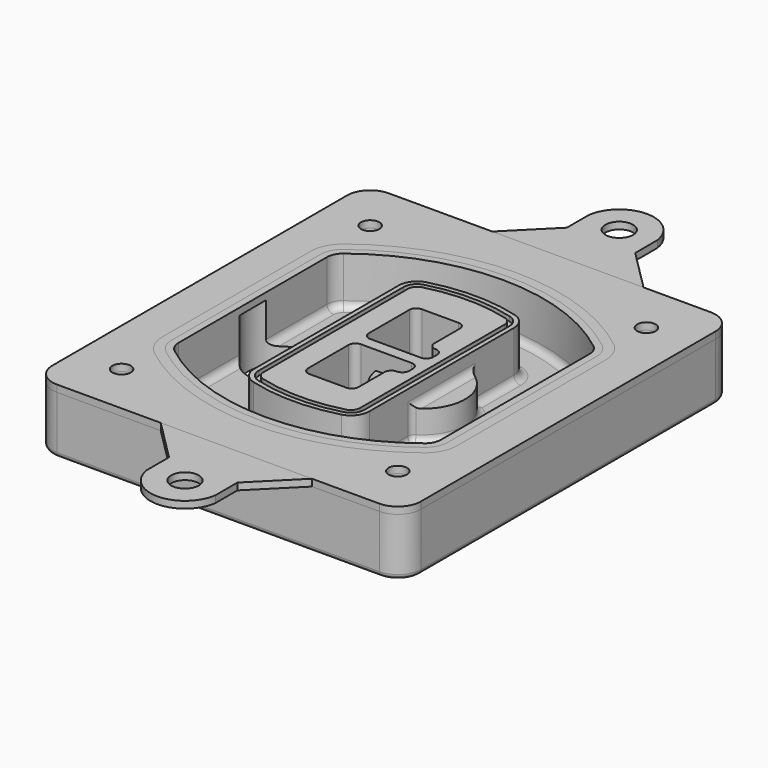
from build123d import *

# Parameters (mm, degrees)
F0_R      = 4
F1_DEPTH  = 25
F2_DEPTH  = 3
F3_DEPTH  = 18
F5_DEPTH  = 21
F6_DEPTH  = 2
F8_DEPTH  = 20
F9_DEPTH  = 16
F10_DEPTH = 25
F7_R      = 6
F7_R_2    = 4
F11_DEPTH = 6
F13_DEPTH = 9
F14_R     = 3
F15_R     = 2
F16_R     = 6
F16_R_2   = 4
F17_DEPTH = 3
F18_DEPTH = 3


with BuildPart() as f1:
    # F0 (on Top) → F1 (new body)
    with BuildSketch(Plane.XY):
        with BuildLine():
            ThreePointArc((-80, -80), (-77.0710678119, -87.0710678119), (-70, -90))
            Line((-70, -90), (70, -90))
            ThreePointArc((70, -90), (77.0710678119, -87.0710678119), (80, -80))
            Line((80, -80), (80, 80))
            ThreePointArc((80, 80), (77.0710678119, 87.0710678119), (70, 90))
            Line((70, 90), (-70, 90))
            ThreePointArc((-70, 90), (-77.0710678119, 87.0710678119), (-80, 80))
            Line((-80, 80), (-80, -80))
        make_face()
        with Locations((-60, -67.5)):
            Circle(F0_R, mode=Mode.SUBTRACT)
        with Locations((60, -67.5)):
            Circle(F0_R, mode=Mode.SUBTRACT)
        with Locations((-60, 67.5)):
            Circle(F0_R, mode=Mode.SUBTRACT)
        with BuildLine():
            ThreePointArc((-64, 40.2934422872), (-62.5820384798, 46.4328484224), (-58.6153846154, 51.3286200352))
            ThreePointArc((-58.6153846154, 51.3286200352), (0, 71.5), (58.6153846154, 51.3286200352))
            ThreePointArc((58.6153846154, 51.3286200352), (62.5820384798, 46.4328484224), (64, 40.2934422872))
            Line((64, 40.2934422872), (64, -40.2934422872))
            ThreePointArc((64, -40.2934422872), (62.5820384798, -46.4328484224), (58.6153846154, -51.3286200352))
            ThreePointArc((58.6153846154, -51.3286200352), (0, -71.5), (-58.6153846154, -51.3286200352))
            ThreePointArc((-58.6153846154, -51.3286200352), (-62.5820384798, -46.4328484224), (-64, -40.2934422872))
            Line((-64, -40.2934422872), (-64, 40.2934422872))
        make_face(mode=Mode.SUBTRACT)
        with Locations((60, 67.5)):
            Circle(F0_R, mode=Mode.SUBTRACT)
        with BuildLine():
            ThreePointArc((58.6153846154, 51.3286200352), (0, 71.5), (-58.6153846154, 51.3286200352))
            ThreePointArc((-58.6153846154, 51.3286200352), (-62.5820384798, 46.4328484224), (-64, 40.2934422872))
            Line((-64, 40.2934422872), (-64, -40.2934422872))
            ThreePointArc((-64, -40.2934422872), (-62.5820384798, -46.4328484224), (-58.6153846154, -51.3286200352))
            ThreePointArc((-58.6153846154, -51.3286200352), (0, -71.5), (58.6153846154, -51.3286200352))
            ThreePointArc((58.6153846154, -51.3286200352), (62.5820384798, -46.4328484224), (64, -40.2934422872))
            Line((64, -40.2934422872), (64, 40.2934422872))
            ThreePointArc((64, 40.2934422872), (62.5820384798, 46.4328484224), (58.6153846154, 51.3286200352))
        make_face()
        with BuildLine():
            Line((-60, -40.2934422872), (-60, 40.2934422872))
            ThreePointArc((-60, 40.2934422872), (-58.9871703427, 44.6787323838), (-56.1538461538, 48.1757121072))
            ThreePointArc((-56.1538461538, 48.1757121072), (0, 67.5), (56.1538461538, 48.1757121072))
            ThreePointArc((56.1538461538, 48.1757121072), (58.9871703427, 44.6787323838), (60, 40.2934422872))
            Line((60, 40.2934422872), (60, -40.2934422872))
            ThreePointArc((60, -40.2934422872), (58.9871703427, -44.6787323838), (56.1538461538, -48.1757121072))
            ThreePointArc((56.1538461538, -48.1757121072), (0, -67.5), (-56.1538461538, -48.1757121072))
            ThreePointArc((-56.1538461538, -48.1757121072), (-58.9871703427, -44.6787323838), (-60, -40.2934422872))
        make_face(mode=Mode.SUBTRACT)
        with BuildLine():
            ThreePointArc((-56.1538461538, 48.1757121072), (-58.9871703427, 44.6787323838), (-60, 40.2934422872))
            Line((-60, 40.2934422872), (-60, -40.2934422872))
            ThreePointArc((-60, -40.2934422872), (-58.9871703427, -44.6787323838), (-56.1538461538, -48.1757121072))
            ThreePointArc((-56.1538461538, -48.1757121072), (0, -67.5), (56.1538461538, -48.1757121072))
            ThreePointArc((56.1538461538, -48.1757121072), (58.9871703427, -44.6787323838), (60, -40.2934422872))
            Line((60, -40.2934422872), (60, 40.2934422872))
            ThreePointArc((60, 40.2934422872), (58.9871703427, 44.6787323838), (56.1538461538, 48.1757121072))
            ThreePointArc((56.1538461538, 48.1757121072), (0, 67.5), (-56.1538461538, 48.1757121072))
        make_face()
        with BuildLine():
            ThreePointArc((54.3076923077, 45.8110311612), (56.2910192399, 43.3631453548), (57, 40.2934422872))
            Line((57, 40.2934422872), (57, -40.2934422872))
            ThreePointArc((57, -40.2934422872), (56.2910192399, -43.3631453548), (54.3076923077, -45.8110311612))
            ThreePointArc((54.3076923077, -45.8110311612), (0, -64.5), (-54.3076923077, -45.8110311612))
            ThreePointArc((-54.3076923077, -45.8110311612), (-56.2910192399, -43.3631453548), (-57, -40.2934422872))
            Line((-57, -40.2934422872), (-57, 40.2934422872))
            ThreePointArc((-57, 40.2934422872), (-56.2910192399, 43.3631453548), (-54.3076923077, 45.8110311612))
            ThreePointArc((-54.3076923077, 45.8110311612), (0, 64.5), (54.3076923077, 45.8110311612))
        make_face(mode=Mode.SUBTRACT)
        with BuildLine():
            Line((57, -40.2934422872), (57, 40.2934422872))
            ThreePointArc((57, 40.2934422872), (56.2910192399, 43.3631453548), (54.3076923077, 45.8110311612))
            ThreePointArc((54.3076923077, 45.8110311612), (0, 64.5), (-54.3076923077, 45.8110311612))
            ThreePointArc((-54.3076923077, 45.8110311612), (-56.2910192399, 43.3631453548), (-57, 40.2934422872))
            Line((-57, 40.2934422872), (-57, -40.2934422872))
            ThreePointArc((-57, -40.2934422872), (-56.2910192399, -43.3631453548), (-54.3076923077, -45.8110311612))
            ThreePointArc((-54.3076923077, -45.8110311612), (0, -64.5), (54.3076923077, -45.8110311612))
            ThreePointArc((54.3076923077, -45.8110311612), (56.2910192399, -43.3631453548), (57, -40.2934422872))
        make_face()
    extrude(amount=-F1_DEPTH)

    # F0 (on Top) → F2 (join)
    with BuildSketch(Plane.XY):
        with BuildLine():
            ThreePointArc((-56.1538461538, 48.1757121072), (-58.9871703427, 44.6787323838), (-60, 40.2934422872))
            Line((-60, 40.2934422872), (-60, -40.2934422872))
            ThreePointArc((-60, -40.2934422872), (-58.9871703427, -44.6787323838), (-56.1538461538, -48.1757121072))
            ThreePointArc((-56.1538461538, -48.1757121072), (0, -67.5), (56.1538461538, -48.1757121072))
            ThreePointArc((56.1538461538, -48.1757121072), (58.9871703427, -44.6787323838), (60, -40.2934422872))
            Line((60, -40.2934422872), (60, 40.2934422872))
            ThreePointArc((60, 40.2934422872), (58.9871703427, 44.6787323838), (56.1538461538, 48.1757121072))
            ThreePointArc((56.1538461538, 48.1757121072), (0, 67.5), (-56.1538461538, 48.1757121072))
        make_face()
        with BuildLine():
            ThreePointArc((54.3076923077, 45.8110311612), (56.2910192399, 43.3631453548), (57, 40.2934422872))
            Line((57, 40.2934422872), (57, -40.2934422872))
            ThreePointArc((57, -40.2934422872), (56.2910192399, -43.3631453548), (54.3076923077, -45.8110311612))
            ThreePointArc((54.3076923077, -45.8110311612), (0, -64.5), (-54.3076923077, -45.8110311612))
            ThreePointArc((-54.3076923077, -45.8110311612), (-56.2910192399, -43.3631453548), (-57, -40.2934422872))
            Line((-57, -40.2934422872), (-57, 40.2934422872))
            ThreePointArc((-57, 40.2934422872), (-56.2910192399, 43.3631453548), (-54.3076923077, 45.8110311612))
            ThreePointArc((-54.3076923077, 45.8110311612), (0, 64.5), (54.3076923077, 45.8110311612))
        make_face(mode=Mode.SUBTRACT)
    extrude(amount=F2_DEPTH)

    # F0 (on Top) → F3 (cut)
    with BuildSketch(Plane.XY):
        with BuildLine():
            Line((57, -40.2934422872), (57, 40.2934422872))
            ThreePointArc((57, 40.2934422872), (56.2910192399, 43.3631453548), (54.3076923077, 45.8110311612))
            ThreePointArc((54.3076923077, 45.8110311612), (0, 64.5), (-54.3076923077, 45.8110311612))
            ThreePointArc((-54.3076923077, 45.8110311612), (-56.2910192399, 43.3631453548), (-57, 40.2934422872))
            Line((-57, 40.2934422872), (-57, -40.2934422872))
            ThreePointArc((-57, -40.2934422872), (-56.2910192399, -43.3631453548), (-54.3076923077, -45.8110311612))
            ThreePointArc((-54.3076923077, -45.8110311612), (0, -64.5), (54.3076923077, -45.8110311612))
            ThreePointArc((54.3076923077, -45.8110311612), (56.2910192399, -43.3631453548), (57, -40.2934422872))
        make_face()
    extrude(amount=-F3_DEPTH, mode=Mode.SUBTRACT)

    # F4 (on face) → F5 (join, through all)
    with BuildSketch(Plane.XY.offset(3)):
        with BuildLine():
            ThreePointArc((-25, -39.2465276821), (-23.3511545998, -44.1109737193), (-19.0842911877, -46.9702398883))
            ThreePointArc((-19.0842911877, -46.9702398883), (0, -49.5), (19.0842911877, -46.9702398883))
            ThreePointArc((19.0842911877, -46.9702398883), (23.3511545998, -44.1109737193), (25, -39.2465276821))
            Line((25, -39.2465276821), (25, 39.2465276821))
            ThreePointArc((25, 39.2465276821), (23.3511545998, 44.1109737193), (19.0842911877, 46.9702398883))
            ThreePointArc((19.0842911877, 46.9702398883), (0, 49.5), (-19.0842911877, 46.9702398883))
            ThreePointArc((-19.0842911877, 46.9702398883), (-23.3511545998, 44.1109737193), (-25, 39.2465276821))
            Line((-25, 39.2465276821), (-25, -39.2465276821))
        make_face()
        with BuildLine():
            ThreePointArc((18.5632183908, 45.0393118368), (21.7633659499, 42.89486221), (23, 39.2465276821))
            Line((23, 39.2465276821), (23, -39.2465276821))
            ThreePointArc((23, -39.2465276821), (21.7633659499, -42.89486221), (18.5632183908, -45.0393118368))
            ThreePointArc((18.5632183908, -45.0393118368), (0, -47.5), (-18.5632183908, -45.0393118368))
            ThreePointArc((-18.5632183908, -45.0393118368), (-21.7633659499, -42.89486221), (-23, -39.2465276821))
            Line((-23, -39.2465276821), (-23, 39.2465276821))
            ThreePointArc((-23, 39.2465276821), (-21.7633659499, 42.89486221), (-18.5632183908, 45.0393118368))
            ThreePointArc((-18.5632183908, 45.0393118368), (0, 47.5), (18.5632183908, 45.0393118368))
        make_face(mode=Mode.SUBTRACT)
        with BuildLine():
            Line((23, -39.2465276821), (23, 39.2465276821))
            ThreePointArc((23, 39.2465276821), (21.7633659499, 42.89486221), (18.5632183908, 45.0393118368))
            ThreePointArc((18.5632183908, 45.0393118368), (0, 47.5), (-18.5632183908, 45.0393118368))
            ThreePointArc((-18.5632183908, 45.0393118368), (-21.7633659499, 42.89486221), (-23, 39.2465276821))
            Line((-23, 39.2465276821), (-23, -39.2465276821))
            ThreePointArc((-23, -39.2465276821), (-21.7633659499, -42.89486221), (-18.5632183908, -45.0393118368))
            ThreePointArc((-18.5632183908, -45.0393118368), (0, -47.5), (18.5632183908, -45.0393118368))
            ThreePointArc((18.5632183908, -45.0393118368), (21.7633659499, -42.89486221), (23, -39.2465276821))
        make_face()
        with BuildLine():
            ThreePointArc((18.0421455939, 43.1083837852), (20.1755772999, 41.6787507007), (21, 39.2465276821))
            Line((21, 39.2465276821), (21, -39.2465276821))
            ThreePointArc((21, -39.2465276821), (20.1755772999, -41.6787507007), (18.0421455939, -43.1083837852))
            ThreePointArc((18.0421455939, -43.1083837852), (0, -45.5), (-18.0421455939, -43.1083837852))
            ThreePointArc((-18.0421455939, -43.1083837852), (-20.1755772999, -41.6787507007), (-21, -39.2465276821))
            Line((-21, -39.2465276821), (-21, 39.2465276821))
            ThreePointArc((-21, 39.2465276821), (-20.1755772999, 41.6787507007), (-18.0421455939, 43.1083837852))
            ThreePointArc((-18.0421455939, 43.1083837852), (0, 45.5), (18.0421455939, 43.1083837852))
        make_face(mode=Mode.SUBTRACT)
        with BuildLine():
            Line((21, -39.2465276821), (21, 39.2465276821))
            ThreePointArc((21, 39.2465276821), (20.1755772999, 41.6787507007), (18.0421455939, 43.1083837852))
            ThreePointArc((18.0421455939, 43.1083837852), (0, 45.5), (-18.0421455939, 43.1083837852))
            ThreePointArc((-18.0421455939, 43.1083837852), (-20.1755772999, 41.6787507007), (-21, 39.2465276821))
            Line((-21, 39.2465276821), (-21, -39.2465276821))
            ThreePointArc((-21, -39.2465276821), (-20.1755772999, -41.6787507007), (-18.0421455939, -43.1083837852))
            ThreePointArc((-18.0421455939, -43.1083837852), (0, -45.5), (18.0421455939, -43.1083837852))
            ThreePointArc((18.0421455939, -43.1083837852), (20.1755772999, -41.6787507007), (21, -39.2465276821))
        make_face()
        with BuildLine():
            Line((-8, -2.5), (14, -2.5))
            ThreePointArc((14, -2.5), (16.1213203436, -3.3786796564), (17, -5.5))
            Line((17, -5.5), (17, -7.5))
            ThreePointArc((17, -7.5), (16.1213203436, -9.6213203436), (14, -10.5))
            ThreePointArc((14, -10.5), (11.8786796564, -11.3786796564), (11, -13.5))
            Line((11, -13.5), (11, -27.5))
            ThreePointArc((11, -27.5), (10.1213203436, -29.6213203436), (8, -30.5))
            Line((8, -30.5), (-8, -30.5))
            ThreePointArc((-8, -30.5), (-10.1213203436, -29.6213203436), (-11, -27.5))
            Line((-11, -27.5), (-11, -5.5))
            ThreePointArc((-11, -5.5), (-10.1213203436, -3.3786796564), (-8, -2.5))
        make_face(mode=Mode.SUBTRACT)
        with BuildLine():
            ThreePointArc((-8, 2.5), (-10.1213203436, 3.3786796564), (-11, 5.5))
            Line((-11, 5.5), (-11, 27.5))
            ThreePointArc((-11, 27.5), (-10.1213203436, 29.6213203436), (-8, 30.5))
            Line((-8, 30.5), (8, 30.5))
            ThreePointArc((8, 30.5), (10.1213203436, 29.6213203436), (11, 27.5))
            Line((11, 27.5), (11, 13.5))
            ThreePointArc((11, 13.5), (11.8786796564, 11.3786796564), (14, 10.5))
            ThreePointArc((14, 10.5), (16.1213203436, 9.6213203436), (17, 7.5))
            Line((17, 7.5), (17, 5.5))
            ThreePointArc((17, 5.5), (16.1213203436, 3.3786796564), (14, 2.5))
            Line((14, 2.5), (-8, 2.5))
        make_face(mode=Mode.SUBTRACT)
    extrude(amount=-F5_DEPTH)

    # F4 (on face) → F6 (cut)
    with BuildSketch(Plane.XY.offset(3)):
        with BuildLine():
            Line((23, -39.2465276821), (23, 39.2465276821))
            ThreePointArc((23, 39.2465276821), (21.7633659499, 42.89486221), (18.5632183908, 45.0393118368))
            ThreePointArc((18.5632183908, 45.0393118368), (0, 47.5), (-18.5632183908, 45.0393118368))
            ThreePointArc((-18.5632183908, 45.0393118368), (-21.7633659499, 42.89486221), (-23, 39.2465276821))
            Line((-23, 39.2465276821), (-23, -39.2465276821))
            ThreePointArc((-23, -39.2465276821), (-21.7633659499, -42.89486221), (-18.5632183908, -45.0393118368))
            ThreePointArc((-18.5632183908, -45.0393118368), (0, -47.5), (18.5632183908, -45.0393118368))
            ThreePointArc((18.5632183908, -45.0393118368), (21.7633659499, -42.89486221), (23, -39.2465276821))
        make_face()
        with BuildLine():
            ThreePointArc((18.0421455939, 43.1083837852), (20.1755772999, 41.6787507007), (21, 39.2465276821))
            Line((21, 39.2465276821), (21, -39.2465276821))
            ThreePointArc((21, -39.2465276821), (20.1755772999, -41.6787507007), (18.0421455939, -43.1083837852))
            ThreePointArc((18.0421455939, -43.1083837852), (0, -45.5), (-18.0421455939, -43.1083837852))
            ThreePointArc((-18.0421455939, -43.1083837852), (-20.1755772999, -41.6787507007), (-21, -39.2465276821))
            Line((-21, -39.2465276821), (-21, 39.2465276821))
            ThreePointArc((-21, 39.2465276821), (-20.1755772999, 41.6787507007), (-18.0421455939, 43.1083837852))
            ThreePointArc((-18.0421455939, 43.1083837852), (0, 45.5), (18.0421455939, 43.1083837852))
        make_face(mode=Mode.SUBTRACT)
    extrude(amount=-F6_DEPTH, mode=Mode.SUBTRACT)

    # F7 (on face) → F8 (join)
    with BuildSketch(Plane(origin=(0, 0, -25), x_dir=(1, 0, 0), z_dir=(0, 0, -1))):
        with BuildLine():
            ThreePointArc((3.28842436, 0), (16.7567035675, 13.4682792075), (30.224982775, 0))
            Line((30.224982775, 0), (35.224982775, 0))
            ThreePointArc((35.224982775, 0), (16.7567035675, 18.4682792075), (-1.71157564, 0))
            Line((-1.71157564, 0), (3.28842436, 0))
        make_face()
        with BuildLine():
            Line((3.28842436, 0), (30.224982775, 0))
            ThreePointArc((30.224982775, 0), (16.7567035675, 13.4682792075), (3.28842436, 0))
        make_face()
        with BuildLine():
            ThreePointArc((3.28842436, 0), (16.7567035675, -13.4682792075), (30.224982775, 0))
            Line((30.224982775, 0), (3.28842436, 0))
        make_face()
        with BuildLine():
            Line((35.224982775, 0), (30.224982775, 0))
            ThreePointArc((30.224982775, 0), (16.7567035675, -13.4682792075), (3.28842436, 0))
            Line((3.28842436, 0), (-1.71157564, 0))
            ThreePointArc((-1.71157564, 0), (16.7567035675, -18.4682792075), (35.224982775, 0))
        make_face()
    extrude(amount=-F8_DEPTH)

    # F7 (on face) → F9 (cut)
    with BuildSketch(Plane(origin=(0, 0, -25), x_dir=(1, 0, 0), z_dir=(0, 0, -1))):
        with BuildLine():
            Line((3.28842436, 0), (30.224982775, 0))
            ThreePointArc((30.224982775, 0), (16.7567035675, 13.4682792075), (3.28842436, 0))
        make_face()
        with BuildLine():
            ThreePointArc((3.28842436, 0), (16.7567035675, -13.4682792075), (30.224982775, 0))
            Line((30.224982775, 0), (3.28842436, 0))
        make_face()
    extrude(amount=-F9_DEPTH, mode=Mode.SUBTRACT)

    # F7 (on face) → F10 (cut)
    with BuildSketch(Plane(origin=(0, 0, -25), x_dir=(1, 0, 0), z_dir=(0, 0, -1))):
        with BuildLine():
            Line((-59.0318229325, 0), (-32.0952645175, 0))
            ThreePointArc((-32.0952645175, 0), (-45.563543725, 13.4682792075), (-59.0318229325, 0))
        make_face()
        with BuildLine():
            ThreePointArc((-59.0318229325, 0), (-45.563543725, -13.4682792075), (-32.0952645175, 0))
            Line((-32.0952645175, 0), (-59.0318229325, 0))
        make_face()
    extrude(amount=-F10_DEPTH, mode=Mode.SUBTRACT)

    # F7 (on face) → F11 (cut)
    with BuildSketch(Plane(origin=(0, 0, -25), x_dir=(1, 0, 0), z_dir=(0, 0, -1))):
        with Locations((60, -67.5)):
            Circle(F7_R)
        with Locations((60, -67.5)):
            Circle(F7_R_2, mode=Mode.SUBTRACT)
        with Locations((60, -67.5)):
            Circle(F7_R)
        with Locations((60, -67.5)):
            Circle(F7_R_2, mode=Mode.SUBTRACT)
        with Locations((-60, -67.5)):
            Circle(F7_R)
        with Locations((-60, -67.5)):
            Circle(F7_R_2, mode=Mode.SUBTRACT)
        with Locations((-60, -67.5)):
            Circle(F7_R)
        with Locations((-60, -67.5)):
            Circle(F7_R_2, mode=Mode.SUBTRACT)
        with Locations((-60, 67.5)):
            Circle(F7_R)
        with Locations((-60, 67.5)):
            Circle(F7_R_2, mode=Mode.SUBTRACT)
        with Locations((-60, 67.5)):
            Circle(F7_R)
        with Locations((-60, 67.5)):
            Circle(F7_R_2, mode=Mode.SUBTRACT)
        with Locations((60, 67.5)):
            Circle(F7_R)
        with Locations((60, 67.5)):
            Circle(F7_R_2, mode=Mode.SUBTRACT)
        with Locations((60, 67.5)):
            Circle(F7_R)
        with Locations((60, 67.5)):
            Circle(F7_R_2, mode=Mode.SUBTRACT)
    extrude(amount=-F11_DEPTH, mode=Mode.SUBTRACT)

    # F12 (on face) → F13 (cut, through all)
    with BuildSketch(Plane(origin=(0, 0, -9), x_dir=(1, 0, 0), z_dir=(0, 0, -1))):
        with BuildLine():
            Line((11, 13.5), (11, 17.5481537753))
            ThreePointArc((11, 17.5481537753), (2.5696536419, 11.8239143813), (-1.5415842455, 2.5))
            Line((-1.5415842455, 2.5), (3.5224848595, 2.5))
            ThreePointArc((3.5224848595, 2.5), (6.1857188154, 8.3455872281), (11.2536447004, 12.2927168648))
            ThreePointArc((11.2536447004, 12.2927168648), (11.0640958889, 12.8831798879), (11, 13.5))
        make_face()
        with BuildLine():
            ThreePointArc((11.2536447004, -12.2927168648), (6.1857188154, -8.3455872281), (3.5224848595, -2.5))
            Line((3.5224848595, -2.5), (-1.5415842455, -2.5))
            ThreePointArc((-1.5415842455, -2.5), (2.5696536419, -11.8239143813), (11, -17.5481537753))
            Line((11, -17.5481537753), (11, -13.5))
            ThreePointArc((11, -13.5), (11.0640958889, -12.8831798879), (11.2536447004, -12.2927168648))
        make_face()
        with BuildLine():
            ThreePointArc((11.2536447004, 12.2927168648), (6.1857188154, 8.3455872281), (3.5224848595, 2.5))
            Line((3.5224848595, 2.5), (14, 2.5))
            ThreePointArc((14, 2.5), (16.1213203436, 3.3786796564), (17, 5.5))
            Line((17, 5.5), (17, 7.5))
            ThreePointArc((17, 7.5), (16.1213203436, 9.6213203436), (14, 10.5))
            ThreePointArc((14, 10.5), (12.3601599782, 10.9878446101), (11.2536447004, 12.2927168648))
        make_face()
        with BuildLine():
            Line((14, -2.5), (3.5224848595, -2.5))
            ThreePointArc((3.5224848595, -2.5), (6.1857188154, -8.3455872281), (11.2536447004, -12.2927168648))
            ThreePointArc((11.2536447004, -12.2927168648), (12.3601599782, -10.9878446101), (14, -10.5))
            ThreePointArc((14, -10.5), (16.1213203436, -9.6213203436), (17, -7.5))
            Line((17, -7.5), (17, -5.5))
            ThreePointArc((17, -5.5), (16.1213203436, -3.3786796564), (14, -2.5))
        make_face()
    extrude(amount=F13_DEPTH, mode=Mode.SUBTRACT)

    # F14
    f14_edges = [f1.edges().sort_by_distance(p)[0] for p in [
        (-57, -23.703476, -18),
        (-57, 23.703476, -18),
        (25, 0, -5),
        (25, 16.526506, -11.5),
        (25, -16.526506, -11.5),
        (25, -27.886517, -18),
        (35.224983, 0, -18),
    ]]
    fillet(f14_edges, radius=F14_R)

    # F15
    f15_edges = [f1.edges().sort_by_distance(p)[0] for p in [
        (0, -90, -25),
    ]]
    fillet(f15_edges, radius=F15_R)


with BuildPart() as f17:
    # F16 (on face) → F17 (new body, through all)
    with BuildSketch(Plane.XY):
        with BuildLine():
            Line((-6.9778796619, 108), (-24.9778796619, 90))
            Line((-24.9778796619, 90), (40.7282431661, 90))
            Line((40.7282431661, 90), (22.7282431661, 108))
            Line((22.7282431661, 108), (22.7282431661, 120))
            ThreePointArc((22.7282431661, 120), (7.8751817521, 132.9055868051), (-6.9778796619, 120))
            Line((-6.9778796619, 120), (-6.9778796619, 108))
        make_face()
        with Locations((7.8751817521, 117.9055868051)):
            Circle(F16_R, mode=Mode.SUBTRACT)
        with BuildLine():
            Line((40.7282431661, 90), (-24.9778796619, 90))
            Line((-24.9778796619, 90), (-70, 90))
            ThreePointArc((-70, 90), (-77.0710678119, 87.0710678119), (-80, 80))
            Line((-80, 80), (-80, -80))
            ThreePointArc((-80, -80), (-77.0710678119, -87.0710678119), (-70, -90))
            Line((-70, -90), (-24.9778796619, -90))
            Line((-24.9778796619, -90), (40.7282431661, -90))
            Line((40.7282431661, -90), (70, -90))
            ThreePointArc((70, -90), (77.0710678119, -87.0710678119), (80, -80))
            Line((80, -80), (80, 80))
            ThreePointArc((80, 80), (77.0710678119, 87.0710678119), (70, 90))
            Line((70, 90), (40.7282431661, 90))
        make_face()
        with Locations((-60, -67.5)):
            Circle(F16_R_2, mode=Mode.SUBTRACT)
        with Locations((60, -67.5)):
            Circle(F16_R_2, mode=Mode.SUBTRACT)
        with BuildLine():
            ThreePointArc((-60, 40.2934422872), (-58.9871703427, 44.6787323838), (-56.1538461538, 48.1757121072))
            ThreePointArc((-56.1538461538, 48.1757121072), (0, 67.5), (56.1538461538, 48.1757121072))
            ThreePointArc((56.1538461538, 48.1757121072), (58.9871703427, 44.6787323838), (60, 40.2934422872))
            Line((60, 40.2934422872), (60, -40.2934422872))
            ThreePointArc((60, -40.2934422872), (58.9871703427, -44.6787323838), (56.1538461538, -48.1757121072))
            ThreePointArc((56.1538461538, -48.1757121072), (0, -67.5), (-56.1538461538, -48.1757121072))
            ThreePointArc((-56.1538461538, -48.1757121072), (-58.9871703427, -44.6787323838), (-60, -40.2934422872))
            Line((-60, -40.2934422872), (-60, 40.2934422872))
        make_face(mode=Mode.SUBTRACT)
        with Locations((-60, 67.5)):
            Circle(F16_R_2, mode=Mode.SUBTRACT)
        with Locations((60, 67.5)):
            Circle(F16_R_2, mode=Mode.SUBTRACT)
        with BuildLine():
            Line((40.7282431661, -90), (-24.9778796619, -90))
            Line((-24.9778796619, -90), (-6.9778796619, -108))
            Line((-6.9778796619, -108), (-6.9778796619, -120))
            ThreePointArc((-6.9778796619, -120), (7.8751817521, -132.9055868051), (22.7282431661, -120))
            Line((22.7282431661, -120), (22.7282431661, -108))
            Line((22.7282431661, -108), (40.7282431661, -90))
        make_face()
        with Locations((7.8751817521, -117.9055868051)):
            Circle(F16_R, mode=Mode.SUBTRACT)
    extrude(amount=F17_DEPTH)


with BuildPart() as f18:
    # F0 (on Top) → F18 (new body, through all)
    with BuildSketch(Plane.XY):
        with BuildLine():
            ThreePointArc((-80, -80), (-77.0710678119, -87.0710678119), (-70, -90))
            Line((-70, -90), (70, -90))
            ThreePointArc((70, -90), (77.0710678119, -87.0710678119), (80, -80))
            Line((80, -80), (80, 80))
            ThreePointArc((80, 80), (77.0710678119, 87.0710678119), (70, 90))
            Line((70, 90), (-70, 90))
            ThreePointArc((-70, 90), (-77.0710678119, 87.0710678119), (-80, 80))
            Line((-80, 80), (-80, -80))
        make_face()
        with Locations((-60, -67.5)):
            Circle(F0_R, mode=Mode.SUBTRACT)
        with Locations((60, -67.5)):
            Circle(F0_R, mode=Mode.SUBTRACT)
        with Locations((-60, 67.5)):
            Circle(F0_R, mode=Mode.SUBTRACT)
        with BuildLine():
            ThreePointArc((-64, 40.2934422872), (-62.5820384798, 46.4328484224), (-58.6153846154, 51.3286200352))
            ThreePointArc((-58.6153846154, 51.3286200352), (0, 71.5), (58.6153846154, 51.3286200352))
            ThreePointArc((58.6153846154, 51.3286200352), (62.5820384798, 46.4328484224), (64, 40.2934422872))
            Line((64, 40.2934422872), (64, -40.2934422872))
            ThreePointArc((64, -40.2934422872), (62.5820384798, -46.4328484224), (58.6153846154, -51.3286200352))
            ThreePointArc((58.6153846154, -51.3286200352), (0, -71.5), (-58.6153846154, -51.3286200352))
            ThreePointArc((-58.6153846154, -51.3286200352), (-62.5820384798, -46.4328484224), (-64, -40.2934422872))
            Line((-64, -40.2934422872), (-64, 40.2934422872))
        make_face(mode=Mode.SUBTRACT)
        with Locations((60, 67.5)):
            Circle(F0_R, mode=Mode.SUBTRACT)
    extrude(amount=F18_DEPTH)


solid = Compound([f1.part, f17.part, f18.part])
